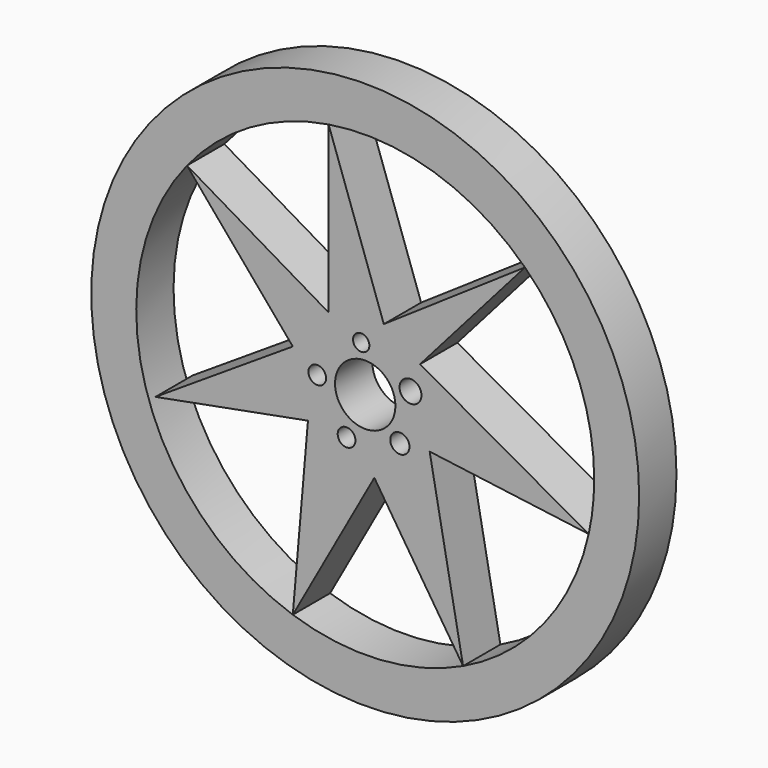
from build123d import *

# Parameters (mm, degrees)
F0_R     = 149.248937
F0_R_2   = 141.671682
F0_R_3   = 4.837137
F0_R_4   = 5.233662
F0_R_5   = 4.814817
F0_R_6   = 4.443344
F0_R_7   = 16.444656
F0_R_8   = 5.966485
F1_DEPTH = 25.4
F2_DEPTH = 25.4


with BuildPart() as f1:
    # F0 (on Front) → F1 (new body)
    with BuildSketch(Plane.XZ):
        with Locations((-96.482173, 10.007462)):
            Circle(F0_R)
        with Locations((-96.482173, 10.007462)):
            Circle(F0_R_2, mode=Mode.SUBTRACT)
        with BuildLine():
            Line((-116.430069, 42.953935), (-193.558867, 88.357919))
            Line((-193.558867, 88.357919), (-135.933059, 20.306799))
            Line((-135.933059, 20.306799), (-210.749903, -28.184742))
            Line((-210.749903, -28.184742), (-127.676039, -12.583054))
            ThreePointArc((-127.676039, -12.583054), (-134.230805, 17.651376), (-116.430069, 42.953935))
        make_face()
        with BuildLine():
            ThreePointArc((-57.967387, 10.007462), (-60.19648, 22.920138), (-66.625736, 34.338139))
            ThreePointArc((-66.625736, 34.338139), (-75.484421, 42.294969), (-86.350144, 47.165646))
            ThreePointArc((-86.350144, 47.165646), (-101.822814, 48.150171), (-116.430069, 42.953935))
            ThreePointArc((-116.430069, 42.953935), (-134.230805, 17.651376), (-127.676039, -12.583054))
            ThreePointArc((-127.676039, -12.583054), (-111.737294, -25.357351), (-91.507807, -28.184742))
            ThreePointArc((-91.507807, -28.184742), (-73.531932, -20.922704), (-61.371316, -5.823409))
            ThreePointArc((-61.371316, -5.823409), (-58.827984, 1.911117), (-57.967387, 10.007462))
        make_face()
        with Locations((-106.646739, -13.720736)):
            Circle(F0_R_3, mode=Mode.SUBTRACT)
        with Locations((-77.615589, -7.188729)):
            Circle(F0_R_4, mode=Mode.SUBTRACT)
        with Locations((-122.61387, 10.955739)):
            Circle(F0_R_5, mode=Mode.SUBTRACT)
        with Locations((-98.663174, 34.338139)):
            Circle(F0_R_6, mode=Mode.SUBTRACT)
        with Locations((-96.482173, 10.007462)):
            Circle(F0_R_7, mode=Mode.SUBTRACT)
        with Locations((-71.809366, 19.665085)):
            Circle(F0_R_8, mode=Mode.SUBTRACT)
        with BuildLine():
            Line((-66.625736, 34.338139), (-9.442771, 99.37648))
            Line((-9.442771, 99.37648), (-86.350144, 47.165646))
            ThreePointArc((-86.350144, 47.165646), (-75.484421, 42.294969), (-66.625736, 34.338139))
        make_face()
        with BuildLine():
            Line((-86.350144, 47.165646), (-116.430069, 133.152743))
            Line((-116.430069, 133.152743), (-116.430069, 42.953935))
            ThreePointArc((-116.430069, 42.953935), (-101.822814, 48.150171), (-86.350144, 47.165646))
        make_face()
        with BuildLine():
            Line((-61.371316, -5.823409), (25.263681, -17.206985))
            Line((25.263681, -17.206985), (-66.625736, 34.338139))
            ThreePointArc((-66.625736, 34.338139), (-60.19648, 22.920138), (-57.967387, 10.007462))
            ThreePointArc((-57.967387, 10.007462), (-58.827984, 1.911117), (-61.371316, -5.823409))
        make_face()
        with BuildLine():
            Line((-91.507807, -28.184742), (-43.163401, -102.774574))
            Line((-43.163401, -102.774574), (-61.371316, -5.823409))
            ThreePointArc((-61.371316, -5.823409), (-73.531932, -20.922704), (-91.507807, -28.184742))
        make_face()
        with BuildLine():
            Line((-127.676039, -12.583054), (-135.933059, -108.340781))
            Line((-135.933059, -108.340781), (-91.507807, -28.184742))
            ThreePointArc((-91.507807, -28.184742), (-111.737294, -25.357351), (-127.676039, -12.583054))
        make_face()
    extrude(amount=F1_DEPTH)

    # F0 (on Front) → F2 (join)
    with BuildSketch(Plane.XZ):
        with Locations((-96.482173, 10.007462)):
            Circle(F0_R_2)
        with BuildLine():
            ThreePointArc((-9.442771, 99.37648), (18.454516, 58.507322), (28.268294, 10.007462))
            ThreePointArc((28.268294, 10.007462), (27.514865, -3.682442), (25.263681, -17.206985))
            ThreePointArc((25.263681, -17.206985), (0.946564, -67.904797), (-43.163401, -102.774574))
            ThreePointArc((-43.163401, -102.774574), (-89.010545, -114.519056), (-135.933059, -108.340781))
            ThreePointArc((-135.933059, -108.340781), (-216.200758, -25.065878), (-193.558867, 88.357919))
            ThreePointArc((-193.558867, 88.357919), (-159.134649, 117.883993), (-116.430069, 133.152743))
            ThreePointArc((-116.430069, 133.152743), (-58.925196, 128.970281), (-9.442771, 99.37648))
        make_face(mode=Mode.SUBTRACT)
    extrude(amount=F2_DEPTH)


solid = f1.part
